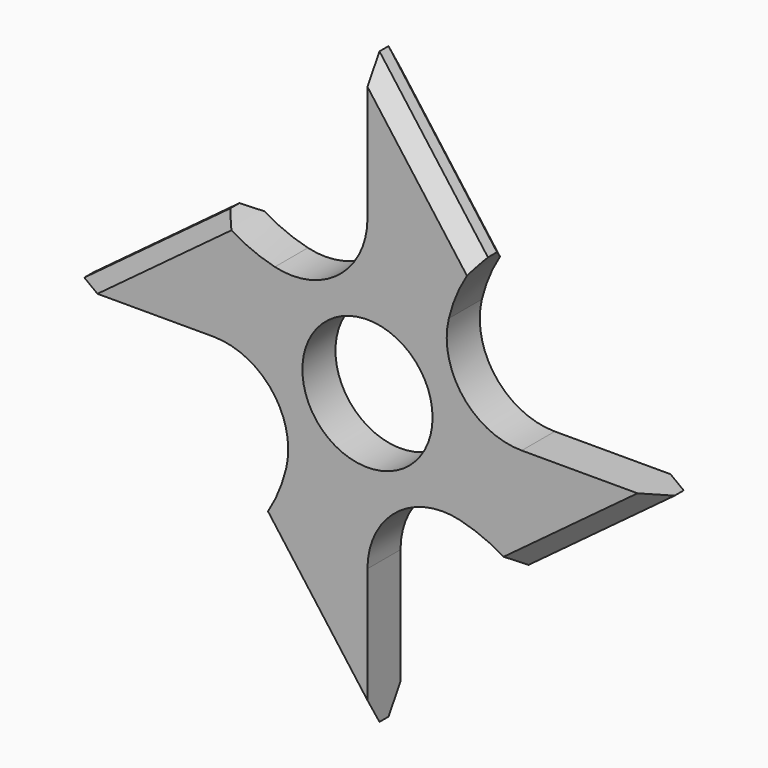
from build123d import *

# Parameters (mm, degrees)
F1_DEPTH = 7
F2_R     = 11.025
F3_DEPTH = 25.4
F4_R     = 12.7
F5_SIZE  = 2.54


with BuildPart() as f1:
    # F0 (on Front) → F1 (new body)
    with BuildSketch(Plane.XZ):
        with BuildLine():
            Line((-15, 0), (0, 0))
            Line((0, 0), (0, 15))
            ThreePointArc((0, 15), (-13.079524, 13.293907), (-25.25102, 18.377153))
            Line((-25.25102, 18.377153), (-50, 0))
            Line((-50, 0), (-15, 0))
        make_face()
        with BuildLine():
            Line((0, 15), (0, 0))
            Line((0, 0), (15, 0))
            ThreePointArc((15, 0), (13.293907, 13.079524), (18.377153, 25.25102))
            Line((18.377153, 25.25102), (0, 50))
            Line((0, 50), (0, 15))
        make_face()
        with BuildLine():
            Line((0, -15), (0, 0))
            Line((0, 0), (-15, 0))
            ThreePointArc((-15, 0), (-13.293907, -13.079524), (-18.377153, -25.25102))
            Line((-18.377153, -25.25102), (0, -50))
            Line((0, -50), (0, -15))
        make_face()
        with BuildLine():
            Line((15, 0), (0, 0))
            Line((0, 0), (0, -15))
            ThreePointArc((0, -15), (13.079524, -13.293907), (25.25102, -18.377153))
            Line((25.25102, -18.377153), (50, 0))
            Line((50, 0), (15, 0))
        make_face()
    extrude(amount=F1_DEPTH)

    # F2 (on face) → F3 (cut)
    with BuildSketch(Plane.XZ.offset(7)):
        Circle(F2_R)
    extrude(amount=-F3_DEPTH, mode=Mode.SUBTRACT)

    # F4
    f4_edges = [f1.edges().sort_by_distance(p)[0] for p in [
        (0, -3.5, 15),
        (15, -3.5, 0),
        (0, -3.5, -15),
        (-15, -3.5, 0),
    ]]
    fillet(f4_edges, radius=F4_R)

    # F5
    f5_edges = [f1.edges().sort_by_distance(p)[0] for p in [
        (37.62551, 0, -9.188577),
        (37.62551, -7, -9.188577),
        (9.188577, 0, 37.62551),
        (9.188577, -7, 37.62551),
        (-9.188577, 0, -37.62551),
        (-9.188577, -7, -37.62551),
        (-37.62551, 0, 9.188577),
        (-37.62551, -7, 9.188577),
    ]]
    chamfer(f5_edges, length=F5_SIZE)


solid = f1.part
